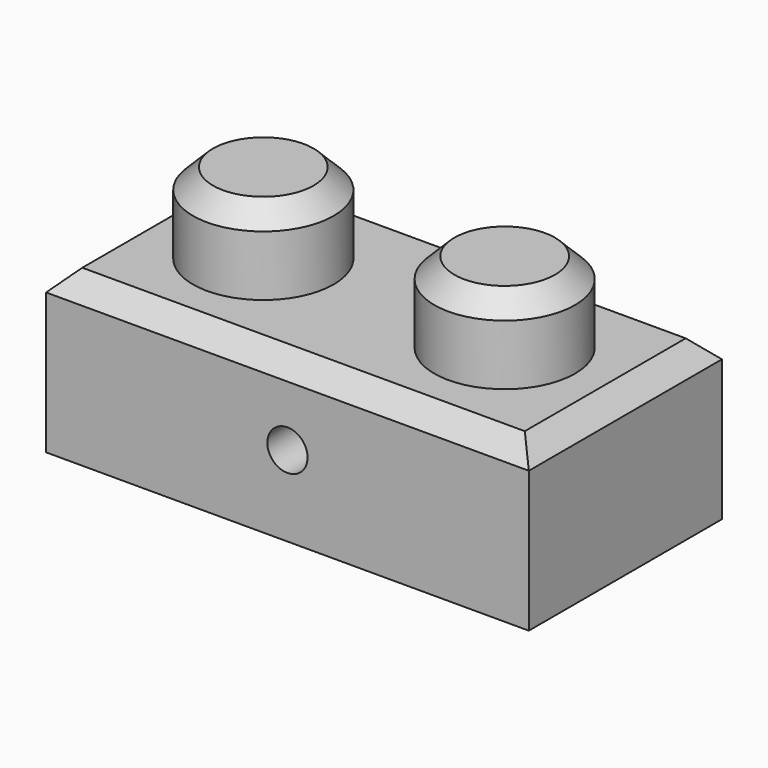
from build123d import *

# Parameters (mm, degrees)
F0_W     = 76.2
F0_H     = 38.1
F1_DEPTH = 25.4
F2_R     = 11.1125
F3_DEPTH = 12.7
F4_T     = -7.9375
F5_R     = 3.175
F6_DEPTH = 38.1
F7_SIZE2 = 3.175
F7_SIZE  = 3.175
F8_SIZE2 = 3.175
F8_SIZE  = 3.175


with BuildPart() as f1:
    # F0 (on Top) → F1 (new body)
    with BuildSketch(Plane.XY):
        with Locations((44.8197317362, -23.7330554545)):
            Rectangle(F0_W, F0_H)
    extrude(amount=F1_DEPTH)

    # F2 (on face) → F3 (join)
    with BuildSketch(Plane.XY.offset(25.4)):
        with Locations((63.8697317362, -23.7330554545)):
            Circle(F2_R)
        with Locations((25.7697317362, -23.7330554545)):
            Circle(F2_R)
    extrude(amount=F3_DEPTH)

    # F4
    f4_openings = [f1.faces().sort_by_distance(p)[0] for p in [
        (44.819732, -23.733055, 0),
    ]]
    offset(amount=F4_T, openings=f4_openings, kind=Kind.INTERSECTION)

    # F5 (on face) → F6 (cut)
    with BuildSketch(Plane.XZ.offset(42.7830554545)):
        with Locations((44.8197317362, 12.7)):
            Circle(F5_R)
    extrude(amount=-F6_DEPTH, mode=Mode.SUBTRACT)

    # F7
    f7_edges = [f1.edges().sort_by_distance(p)[0] for p in [
        (14.657232, -23.733055, 38.1),
        (52.757232, -23.733055, 38.1),
    ]]
    chamfer(f7_edges, length=F7_SIZE, length2=F7_SIZE2)

    # F8
    f8_edges = [f1.edges().sort_by_distance(p)[0] for p in [
        (44.819732, -4.683055, 25.4),
        (82.919732, -23.733055, 25.4),
        (44.819732, -42.783055, 25.4),
        (6.719732, -23.733055, 25.4),
    ]]
    chamfer(f8_edges, length=F8_SIZE, length2=F8_SIZE2)


solid = f1.part
